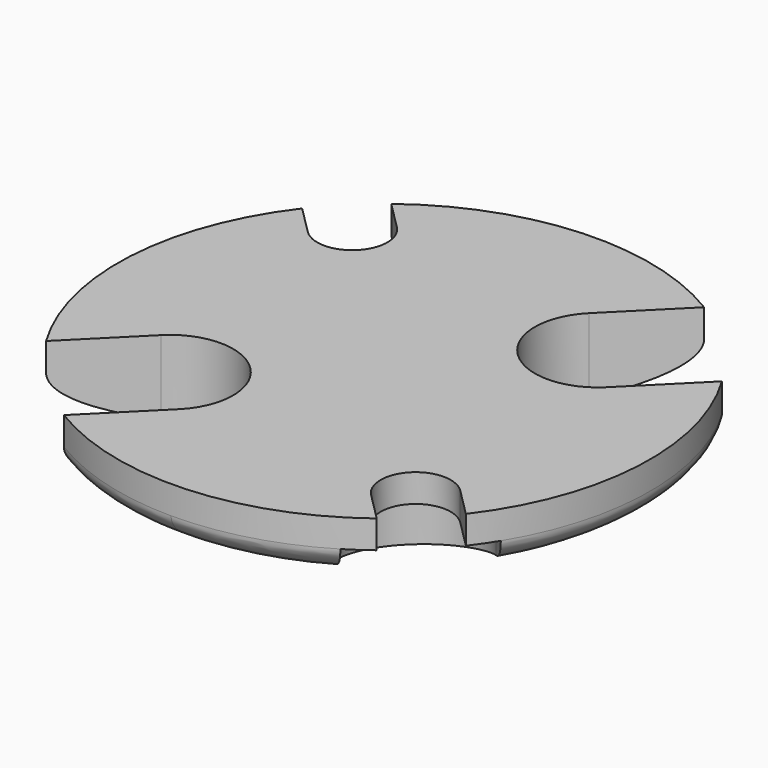
from build123d import *

# Parameters (mm, degrees)
SKETCH026_R         = 20
PAD026_DEPTH        = 9
SKETCH025_R         = 20
PAD025_DEPTH        = 1
REVOLUTION001_ANGLE = -360


with BuildPart() as screwshouldercutout:
    # Sketch026 → Pad026 (new body)
    with BuildSketch(Plane.XY):
        Circle(SKETCH026_R)
        with BuildLine():
            ThreePointArc((-2.65165, -5.833631), (-2.65165, -2.65165), (-5.833631, -2.65165))
            Line((-5.833631, -2.65165), (-12.077589, -8.895608))
            ThreePointArc((-12.077589, 8.895608), (-15, 0), (-12.077589, -8.895608))
            Line((-7.247845, 4.065864), (-12.077589, 8.895608))
            ThreePointArc((-7.247845, 4.065864), (-4.065864, 4.065864), (-4.065864, 7.247845))
            Line((-4.065864, 7.247845), (-8.895608, 12.077589))
            ThreePointArc((8.895608, 12.077589), (0, 15), (-8.895608, 12.077589))
            Line((2.65165, 5.833631), (8.895608, 12.077589))
            ThreePointArc((2.65165, 5.833631), (2.65165, 2.65165), (5.833631, 2.65165))
            Line((5.833631, 2.65165), (12.077589, 8.895608))
            ThreePointArc((12.077589, -8.895608), (15, 0), (12.077589, 8.895608))
            Line((7.247845, -4.065864), (12.077589, -8.895608))
            ThreePointArc((7.247845, -4.065864), (4.065864, -4.065864), (4.065864, -7.247845))
            Line((4.065864, -7.247845), (8.895608, -12.077589))
            ThreePointArc((-8.895608, -12.077589), (0, -15), (8.895608, -12.077589))
            Line((-2.65165, -5.833631), (-8.895608, -12.077589))
        make_face(mode=Mode.SUBTRACT)
    extrude(amount=-PAD026_DEPTH)


with BuildPart() as screwshouldercutout_1:
    # Body027 placement: moved
    add(screwshouldercutout.part.moved(Location((0, 0, -1))))


with BuildPart() as screwmountcutout:
    # Sketch025 → Pad025 (new body)
    with BuildSketch(Plane.XY):
        Circle(SKETCH025_R)
        with BuildLine():
            ThreePointArc((-2.65165, -5.833631), (-2.65165, -2.65165), (-5.833631, -2.65165))
            Line((-5.833631, -2.65165), (-12.077589, -8.895608))
            ThreePointArc((-11.453593, 9.685826), (-14.991549, 0.503442), (-12.077589, -8.895608))
            Line((-6.540738, 4.772971), (-11.453593, 9.685826))
            ThreePointArc((-6.540738, 4.772971), (-4.772971, 4.772971), (-4.772971, 6.540738))
            Line((-4.772971, 6.540738), (-9.685826, 11.453593))
            ThreePointArc((8.895608, 12.077589), (-0.503442, 14.991549), (-9.685826, 11.453593))
            Line((2.65165, 5.833631), (8.895608, 12.077589))
            ThreePointArc((2.65165, 5.833631), (2.65165, 2.65165), (5.833631, 2.65165))
            Line((5.833631, 2.65165), (12.077589, 8.895608))
            ThreePointArc((11.453593, -9.685826), (14.991549, -0.503442), (12.077589, 8.895608))
            Line((6.540738, -4.772971), (11.453593, -9.685826))
            ThreePointArc((6.540738, -4.772971), (4.772971, -4.772971), (4.772971, -6.540738))
            Line((4.772971, -6.540738), (9.685826, -11.453593))
            ThreePointArc((-8.895608, -12.077589), (0.503442, -14.991549), (9.685826, -11.453593))
            Line((-2.65165, -5.833631), (-8.895608, -12.077589))
        make_face(mode=Mode.SUBTRACT)
    extrude(amount=-PAD025_DEPTH)


with BuildPart() as cone001:
    # Sketch027 → Revolution001 (revolve, symmetric)
    with BuildSketch(Plane.YZ) as revolution001_sk:
        with BuildLine():
            Line((0, 0), (9.5, 0))
            Line((9.5, 0), (9.5, -1))
            add(Edge.make_bspline(
                [(0, -3.25), (9.5, -3.25), (9.5, -1)],
                knots=[4.712389, 4.712389, 4.712389, 6.283185, 6.283185, 6.283185], degree=2, weights=[1, 0.707107, 1]))
            Line((0, -3.25), (0, 0))
        make_face()
    revolve(axis=Axis((0, 0, 0), (0, 0, 1)), revolution_arc=REVOLUTION001_ANGLE / 2)
    revolve(revolution001_sk.sketch, axis=Axis((0, 0, 0), (0, 0, -1)), revolution_arc=REVOLUTION001_ANGLE / 2)

    # Boolean005: cut ScrewShoulderCutout, ScrewMountCutout
    add(screwshouldercutout_1.part, mode=Mode.SUBTRACT)
    add(screwmountcutout.part, mode=Mode.SUBTRACT)


solid = cone001.part
